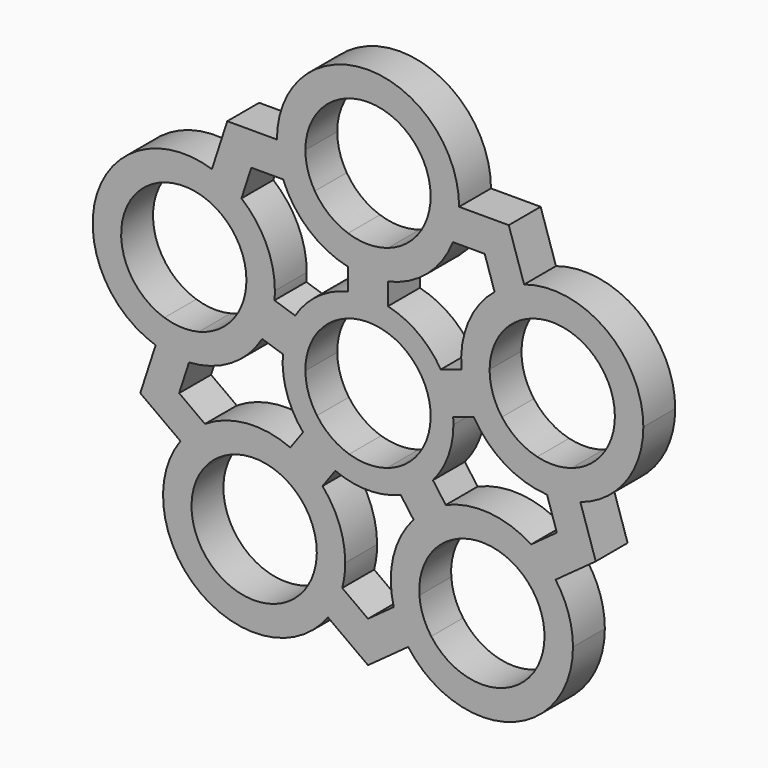
from build123d import *

# Parameters (mm, degrees)
F1_DEPTH = 7


with BuildPart() as f1:
    # F0 (on Front) → F1 (new body)
    with BuildSketch(Plane.XZ):
        with BuildLine():
            ThreePointArc((48.360679775, 10.5146222424), (41.7652438117, 23.4588941524), (27.416407865, 25.7315265031))
            Line((27.416407865, 25.7315265031), (28.9614928369, 20.9762439216))
            ThreePointArc((28.9614928369, 20.9762439216), (38.8263175502, 19.4138091805), (43.360679775, 10.5146222424))
            ThreePointArc((43.360679775, 10.5146222424), (41.2598667131, 4.0489844672), (35.7598667131, 0.0530005631))
            Line((35.7598667131, 0.0530005631), (37.304951685, -4.7022820183))
            ThreePointArc((37.304951685, -4.7022820183), (45.304951685, 1.1100582057), (48.360679775, 10.5146222424))
        make_face()
        with BuildLine():
            ThreePointArc((27.416407865, 25.7315265031), (24.6902095954, 24.5561281169), (22.2280947787, 22.8973005186))
            Line((22.2280947787, 22.8973005186), (23.9485313704, 17.6023411434))
            ThreePointArc((23.9485313704, 17.6023411434), (26.2187976829, 19.6402610894), (28.9614928369, 20.9762439216))
            Line((28.9614928369, 20.9762439216), (27.416407865, 25.7315265031))
        make_face()
        with BuildLine():
            ThreePointArc((22.2280947787, 22.8973005186), (17.5969797386, 16.6817253902), (16.4307551931, 9.0187937711))
            Line((16.4307551931, 9.0187937711), (21.3611921305, 10.6207898431))
            ThreePointArc((21.3611921305, 10.6207898431), (22.0462036291, 14.3371321293), (23.9485313704, 17.6023411434))
            Line((23.9485313704, 17.6023411434), (22.2280947787, 22.8973005186))
        make_face()
        with BuildLine():
            Line((21.3611921305, 10.6207898431), (16.4307551931, 9.0187937711))
            ThreePointArc((16.4307551931, 9.0187937711), (17.1437755143, 5.5703503324), (18.5938741537, 2.361398157))
            Line((18.5938741537, 2.361398157), (23.5243110912, 3.963394229))
            ThreePointArc((23.5243110912, 3.963394229), (21.8990580958, 7.1154353043), (21.3611921305, 10.6207898431))
        make_face()
        with BuildLine():
            Line((29.7211653989, -0.1639995722), (31.4416019907, -5.4589589474))
            ThreePointArc((31.4416019907, -5.4589589474), (34.4085291179, -5.3537838864), (37.304951685, -4.7022820183))
            Line((37.304951685, -4.7022820183), (35.7598667131, 0.0530005631))
            ThreePointArc((35.7598667131, 0.0530005631), (32.7557087171, -0.4782823845), (29.7211653989, -0.1639995722))
        make_face()
        with BuildLine():
            Line((23.5243110912, 3.963394229), (18.5938741537, 2.361398157))
            ThreePointArc((18.5938741537, 2.361398157), (24.0415278254, -3.1525541609), (31.4416019907, -5.4589589474))
            Line((31.4416019907, -5.4589589474), (29.7211653989, -0.1639995722))
            ThreePointArc((29.7211653989, -0.1639995722), (26.2629082231, 1.359449819), (23.5243110912, 3.963394229))
        make_face()
        with BuildLine():
            ThreePointArc((37.304951685, -4.7022820183), (34.4085291179, -5.3537838864), (31.4416019907, -5.4589589474))
            Line((31.4416019907, -5.4589589474), (33.1696967694, -10.7774877984))
            Line((33.1696967694, -10.7774877984), (28.645485903, -14.0645193985))
            ThreePointArc((28.645485903, -14.0645193985), (30.9839600202, -15.8935238202), (32.94427191, -18.1230743727))
            Line((32.94427191, -18.1230743727), (40, -12.9967878493))
            Line((40, -12.9967878493), (37.304951685, -4.7022820183))
        make_face()
        with BuildLine():
            ThreePointArc((36, -27.5276384094), (35.2169042607, -22.5833664994), (32.94427191, -18.1230743727))
            Line((32.94427191, -18.1230743727), (28.8991869381, -21.0620006342))
            ThreePointArc((28.8991869381, -21.0620006342), (30.4616216792, -24.1284514713), (31, -27.5276384094))
            ThreePointArc((31, -27.5276384094), (23.3991869381, -37.9892600887), (11.1008130619, -33.9932761846))
            Line((11.1008130619, -33.9932761846), (7.05572809, -36.9322024461))
            ThreePointArc((7.05572809, -36.9322024461), (24.94427191, -42.7445426701), (36, -27.5276384094))
        make_face()
        with BuildLine():
            ThreePointArc((32.94427191, -18.1230743727), (30.9839600202, -15.8935238202), (28.645485903, -14.0645193985))
            Line((28.645485903, -14.0645193985), (24.1413244303, -17.3369842615))
            ThreePointArc((24.1413244303, -17.3369842615), (26.7810523469, -18.8663839351), (28.8991869381, -21.0620006342))
            Line((28.8991869381, -21.0620006342), (32.94427191, -18.1230743727))
        make_face()
        with BuildLine():
            ThreePointArc((28.645485903, -14.0645193985), (21.3030294243, -11.5807856065), (13.6547651702, -12.83961625))
            Line((13.6547651702, -12.83961625), (16.7019427769, -17.0336964164))
            ThreePointArc((16.7019427769, -17.0336964164), (20.4480745194, -16.5367681425), (24.1413244303, -17.3369842615))
            Line((24.1413244303, -17.3369842615), (28.645485903, -14.0645193985))
        make_face()
        with BuildLine():
            Line((16.7019427769, -17.0336964164), (13.6547651702, -12.83961625))
            ThreePointArc((13.6547651702, -12.83961625), (10.5954359633, -14.5833664994), (7.9916462096, -16.9541130161))
            Line((7.9916462096, -16.9541130161), (11.0388238163, -21.1481931824))
            ThreePointArc((11.0388238163, -21.1481931824), (13.5343622248, -18.6284514713), (16.7019427769, -17.0336964164))
        make_face()
        with BuildLine():
            Line((11.0388238163, -21.1481931824), (7.9916462096, -16.9541130161))
            ThreePointArc((7.9916462096, -16.9541130161), (4.4309834911, -23.8390445115), (4.5242108664, -31.5896515423))
            Line((4.5242108664, -31.5896515423), (9.0283723391, -28.3171866794))
            ThreePointArc((9.0283723391, -28.3171866794), (9.4085985716, -24.5574169054), (11.0388238163, -21.1481931824))
        make_face()
        with BuildLine():
            Line((9.0283723391, -28.3171866794), (4.5242108664, -31.5896515423))
            ThreePointArc((4.5242108664, -31.5896515423), (5.5410691968, -34.3788660388), (7.05572809, -36.9322024461))
            Line((7.05572809, -36.9322024461), (11.1008130619, -33.9932761846))
            ThreePointArc((11.1008130619, -33.9932761846), (9.667197078, -31.3003276061), (9.0283723391, -28.3171866794))
        make_face()
        with BuildLine():
            ThreePointArc((-7.05572809, -36.9322024461), (-5.5410691968, -34.3788660388), (-4.5242108664, -31.5896515423))
            Line((-4.5242108664, -31.5896515423), (-9.0283723391, -28.3171866794))
            ThreePointArc((-9.0283723391, -28.3171866794), (-9.667197078, -31.3003276061), (-11.1008130619, -33.9932761846))
            Line((-11.1008130619, -33.9932761846), (-7.05572809, -36.9322024461))
        make_face()
        with BuildLine():
            Line((-28.8991869381, -21.0620006342), (-32.94427191, -18.1230743727))
            ThreePointArc((-32.94427191, -18.1230743727), (-29.4045640367, -40.4719103194), (-7.05572809, -36.9322024461))
            Line((-7.05572809, -36.9322024461), (-11.1008130619, -33.9932761846))
            ThreePointArc((-11.1008130619, -33.9932761846), (-26.4656377752, -36.4268253475), (-28.8991869381, -21.0620006342))
        make_face()
        with BuildLine():
            ThreePointArc((-4, -27.5276384094), (-5.031137975, -21.8766942692), (-7.9916462096, -16.9541130161))
            Line((-7.9916462096, -16.9541130161), (-11.0388238163, -21.1481931824))
            ThreePointArc((-11.0388238163, -21.1481931824), (-9.5220961538, -24.1789773353), (-9, -27.5276384094))
            ThreePointArc((-9, -27.5276384094), (-9.0070953732, -27.9226673515), (-9.0283723391, -28.3171866794))
            Line((-9.0283723391, -28.3171866794), (-4.5242108664, -31.5896515423))
            ThreePointArc((-4.5242108664, -31.5896515423), (-4.1315938712, -29.5754877523), (-4, -27.5276384094))
        make_face()
        with BuildLine():
            Line((-11.0388238163, -21.1481931824), (-7.9916462096, -16.9541130161))
            ThreePointArc((-7.9916462096, -16.9541130161), (-10.5954359633, -14.5833664994), (-13.6547651702, -12.83961625))
            Line((-13.6547651702, -12.83961625), (-16.7019427769, -17.0336964164))
            ThreePointArc((-16.7019427769, -17.0336964164), (-13.5343622248, -18.6284514713), (-11.0388238163, -21.1481931824))
        make_face()
        with BuildLine():
            Line((-16.7019427769, -17.0336964164), (-13.6547651702, -12.83961625))
            ThreePointArc((-13.6547651702, -12.83961625), (-21.3030294243, -11.5807856065), (-28.645485903, -14.0645193985))
            Line((-28.645485903, -14.0645193985), (-24.1413244303, -17.3369842615))
            ThreePointArc((-24.1413244303, -17.3369842615), (-20.4480745194, -16.5367681425), (-16.7019427769, -17.0336964164))
        make_face()
        with BuildLine():
            Line((-24.1413244303, -17.3369842615), (-28.645485903, -14.0645193985))
            ThreePointArc((-28.645485903, -14.0645193985), (-30.9839600202, -15.8935238202), (-32.94427191, -18.1230743727))
            Line((-32.94427191, -18.1230743727), (-28.8991869381, -21.0620006342))
            ThreePointArc((-28.8991869381, -21.0620006342), (-26.7810523469, -18.8663839351), (-24.1413244303, -17.3369842615))
        make_face()
        with BuildLine():
            ThreePointArc((-37.304951685, -4.7022820183), (-34.4085291179, -5.3537838864), (-31.4416019907, -5.4589589474))
            Line((-31.4416019907, -5.4589589474), (-29.7211653989, -0.1639995722))
            ThreePointArc((-29.7211653989, -0.1639995722), (-32.7557087171, -0.4782823845), (-35.7598667131, 0.0530005631))
            Line((-35.7598667131, 0.0530005631), (-37.304951685, -4.7022820183))
        make_face()
        with BuildLine():
            ThreePointArc((-31.4416019907, -5.4589589474), (-24.0415278254, -3.1525541609), (-18.5938741537, 2.361398157))
            Line((-18.5938741537, 2.361398157), (-23.5243110912, 3.963394229))
            ThreePointArc((-23.5243110912, 3.963394229), (-26.2629082231, 1.359449819), (-29.7211653989, -0.1639995722))
            Line((-29.7211653989, -0.1639995722), (-31.4416019907, -5.4589589474))
        make_face()
        with BuildLine():
            Line((-21.3611921305, 10.6207898431), (-16.4307551931, 9.0187937711))
            ThreePointArc((-16.4307551931, 9.0187937711), (-16.378208231, 9.7658877467), (-16.360679775, 10.5146222424))
            ThreePointArc((-16.360679775, 10.5146222424), (-17.9017489718, 17.3658498718), (-22.2280947787, 22.8973005186))
            Line((-22.2280947787, 22.8973005186), (-23.9485313704, 17.6023411434))
            ThreePointArc((-23.9485313704, 17.6023411434), (-22.0462036291, 14.3371321293), (-21.3611921305, 10.6207898431))
        make_face()
        with BuildLine():
            Line((-23.9485313704, 17.6023411434), (-22.2280947787, 22.8973005186))
            ThreePointArc((-22.2280947787, 22.8973005186), (-24.6902095954, 24.5561281169), (-27.416407865, 25.7315265031))
            Line((-27.416407865, 25.7315265031), (-28.9614928369, 20.9762439216))
            ThreePointArc((-28.9614928369, 20.9762439216), (-26.2187976829, 19.6402610894), (-23.9485313704, 17.6023411434))
        make_face()
        with BuildLine():
            ThreePointArc((-27.416407865, 25.7315265031), (-47.5775840357, 15.4588941524), (-37.304951685, -4.7022820183))
            Line((-37.304951685, -4.7022820183), (-35.7598667131, 0.0530005631))
            ThreePointArc((-35.7598667131, 0.0530005631), (-42.8223014542, 13.9138091805), (-28.9614928369, 20.9762439216))
            Line((-28.9614928369, 20.9762439216), (-27.416407865, 25.7315265031))
        make_face()
        with BuildLine():
            Line((11, 34.0260323341), (16, 34.0260323341))
            ThreePointArc((16, 34.0260323341), (0, 50.0260323341), (-16, 34.0260323341))
            Line((-16, 34.0260323341), (-11, 34.0260323341))
            ThreePointArc((-11, 34.0260323341), (0, 45.0260323341), (11, 34.0260323341))
        make_face()
        with BuildLine():
            Line((9.3403180627, 28.2158293697), (14.9077678246, 28.2158293697))
            ThreePointArc((14.9077678246, 28.2158293697), (15.7245713009, 31.0700456286), (16, 34.0260323341))
            Line((16, 34.0260323341), (11, 34.0260323341))
            ThreePointArc((11, 34.0260323341), (10.5769442347, 31.0047328363), (9.3403180627, 28.2158293697))
        make_face()
        with BuildLine():
            Line((3.5, 23.5977055268), (3.5, 18.4135373381))
            ThreePointArc((3.5, 18.4135373381), (10.4274978465, 21.8906588886), (14.9077678246, 28.2158293697))
            Line((14.9077678246, 28.2158293697), (9.3403180627, 28.2158293697))
            ThreePointArc((9.3403180627, 28.2158293697), (6.8227713537, 25.3976030996), (3.5, 23.5977055268))
        make_face()
        with BuildLine():
            ThreePointArc((-14.9077678246, 28.2158293697), (-10.4274978465, 21.8906588886), (-3.5, 18.4135373381))
            Line((-3.5, 18.4135373381), (-3.5, 23.5977055268))
            ThreePointArc((-3.5, 23.5977055268), (-6.8227713537, 25.3976030996), (-9.3403180627, 28.2158293697))
            Line((-9.3403180627, 28.2158293697), (-14.9077678246, 28.2158293697))
        make_face()
        with BuildLine():
            ThreePointArc((-16, 34.0260323341), (-15.7245713009, 31.0700456286), (-14.9077678246, 28.2158293697))
            Line((-14.9077678246, 28.2158293697), (-9.3403180627, 28.2158293697))
            ThreePointArc((-9.3403180627, 28.2158293697), (-10.5769442347, 31.0047328363), (-11, 34.0260323341))
            Line((-11, 34.0260323341), (-16, 34.0260323341))
        make_face()
        with BuildLine():
            ThreePointArc((-3.5, 18.4135373381), (0, 18.0260323341), (3.5, 18.4135373381))
            Line((3.5, 18.4135373381), (3.5, 23.5977055268))
            ThreePointArc((3.5, 23.5977055268), (0, 23.0260323341), (-3.5, 23.5977055268))
            Line((-3.5, 23.5977055268), (-3.5, 18.4135373381))
        make_face()
        with BuildLine():
            ThreePointArc((-18.5938741537, 2.361398157), (-17.1437755143, 5.5703503324), (-16.4307551931, 9.0187937711))
            Line((-16.4307551931, 9.0187937711), (-21.3611921305, 10.6207898431))
            ThreePointArc((-21.3611921305, 10.6207898431), (-21.3608078646, 10.5677066609), (-21.360679775, 10.5146222424))
            ThreePointArc((-21.360679775, 10.5146222424), (-21.9155839037, 7.064988604), (-23.5243110912, 3.963394229))
            Line((-23.5243110912, 3.963394229), (-18.5938741537, 2.361398157))
        make_face()
        with BuildLine():
            ThreePointArc((-14.953624315, 1.1786092852), (-14.2658477444, 4.6352549156), (-12.7905053543, 7.8360048992))
            Line((-12.7905053543, 7.8360048992), (-16.4307551931, 9.0187937711))
            ThreePointArc((-16.4307551931, 9.0187937711), (-17.1437755143, 5.5703503324), (-18.5938741537, 2.361398157))
            Line((-18.5938741537, 2.361398157), (-14.953624315, 1.1786092852))
        make_face()
        with BuildLine():
            ThreePointArc((-10.9994876445, -0.1061676007), (-10.4616216792, 3.3991869381), (-8.8363686838, 6.5512280134))
            Line((-8.8363686838, 6.5512280134), (-12.7905053543, 7.8360048992))
            ThreePointArc((-12.7905053543, 7.8360048992), (-14.2658477444, 4.6352549156), (-14.953624315, 1.1786092852))
            Line((-14.953624315, 1.1786092852), (-10.9994876445, -0.1061676007))
        make_face()
        with BuildLine():
            ThreePointArc((-8.9611761837, -6.379445227), (-10.4616216792, -3.3991869381), (-10.9994876445, -0.1061676007))
            Line((-10.9994876445, -0.1061676007), (-14.953624315, 1.1786092852))
            ThreePointArc((-14.953624315, 1.1786092852), (-14.2658477444, -4.6352549156), (-11.4049670423, -9.7430347821))
            Line((-11.4049670423, -9.7430347821), (-8.9611761837, -6.379445227))
        make_face()
        with BuildLine():
            Line((-5.7418480816, -13.8575315481), (-3.2980572231, -10.493941993))
            ThreePointArc((-3.2980572231, -10.493941993), (-6.4656377752, -8.8991869381), (-8.9611761837, -6.379445227))
            Line((-8.9611761837, -6.379445227), (-11.4049670423, -9.7430347821))
            ThreePointArc((-11.4049670423, -9.7430347821), (-8.8167787844, -12.1352549156), (-5.7418480816, -13.8575315481))
        make_face()
        with BuildLine():
            Line((-7.9916462096, -16.9541130161), (-5.7418480816, -13.8575315481))
            ThreePointArc((-5.7418480816, -13.8575315481), (-8.8167787844, -12.1352549156), (-11.4049670423, -9.7430347821))
            Line((-11.4049670423, -9.7430347821), (-13.6547651702, -12.83961625))
            ThreePointArc((-13.6547651702, -12.83961625), (-10.5954359633, -14.5833664994), (-7.9916462096, -16.9541130161))
        make_face()
        with BuildLine():
            Line((11.4049670423, -9.7430347821), (8.9611761837, -6.379445227))
            ThreePointArc((8.9611761837, -6.379445227), (6.4656377752, -8.8991869381), (3.2980572231, -10.493941993))
            Line((3.2980572231, -10.493941993), (5.7418480816, -13.8575315481))
            ThreePointArc((5.7418480816, -13.8575315481), (8.8167787844, -12.1352549156), (11.4049670423, -9.7430347821))
        make_face()
        with BuildLine():
            Line((5.7418480816, -13.8575315481), (3.2980572231, -10.493941993))
            ThreePointArc((3.2980572231, -10.493941993), (0, -11), (-3.2980572231, -10.493941993))
            Line((-3.2980572231, -10.493941993), (-5.7418480816, -13.8575315481))
            ThreePointArc((-5.7418480816, -13.8575315481), (0, -15), (5.7418480816, -13.8575315481))
        make_face()
        with BuildLine():
            ThreePointArc((8.8363686838, 6.5512280134), (10.4450958713, 3.4496336384), (11, 0))
            ThreePointArc((11, 0), (10.9998719104, -0.0530844185), (10.9994876445, -0.1061676007))
            Line((10.9994876445, -0.1061676007), (14.953624315, 1.1786092852))
            ThreePointArc((14.953624315, 1.1786092852), (14.2658477444, 4.6352549156), (12.7905053543, 7.8360048992))
            Line((12.7905053543, 7.8360048992), (8.8363686838, 6.5512280134))
        make_face()
        with BuildLine():
            Line((16.4307551931, 9.0187937711), (12.7905053543, 7.8360048992))
            ThreePointArc((12.7905053543, 7.8360048992), (14.2658477444, 4.6352549156), (14.953624315, 1.1786092852))
            Line((14.953624315, 1.1786092852), (18.5938741537, 2.361398157))
            ThreePointArc((18.5938741537, 2.361398157), (17.1437755143, 5.5703503324), (16.4307551931, 9.0187937711))
        make_face()
        with BuildLine():
            ThreePointArc((3.5, 10.4283268073), (6.4656377752, 8.8991869381), (8.8363686838, 6.5512280134))
            Line((8.8363686838, 6.5512280134), (12.7905053543, 7.8360048992))
            ThreePointArc((12.7905053543, 7.8360048992), (8.8167787844, 12.1352549156), (3.5, 14.5859521458))
            Line((3.5, 14.5859521458), (3.5, 10.4283268073))
        make_face()
        with BuildLine():
            ThreePointArc((-3.5, 10.4283268073), (0, 11), (3.5, 10.4283268073))
            Line((3.5, 10.4283268073), (3.5, 14.5859521458))
            ThreePointArc((3.5, 14.5859521458), (0, 15), (-3.5, 14.5859521458))
            Line((-3.5, 14.5859521458), (-3.5, 10.4283268073))
        make_face()
        with BuildLine():
            ThreePointArc((-3.5, 14.5859521458), (0, 15), (3.5, 14.5859521458))
            Line((3.5, 14.5859521458), (3.5, 18.4135373381))
            ThreePointArc((3.5, 18.4135373381), (0, 18.0260323341), (-3.5, 18.4135373381))
            Line((-3.5, 18.4135373381), (-3.5, 14.5859521458))
        make_face()
        with BuildLine():
            ThreePointArc((-8.8363686838, 6.5512280134), (-6.4656377752, 8.8991869381), (-3.5, 10.4283268073))
            Line((-3.5, 10.4283268073), (-3.5, 14.5859521458))
            ThreePointArc((-3.5, 14.5859521458), (-8.8167787844, 12.1352549156), (-12.7905053543, 7.8360048992))
            Line((-12.7905053543, 7.8360048992), (-8.8363686838, 6.5512280134))
        make_face()
        with BuildLine():
            Line((14.953624315, 1.1786092852), (10.9994876445, -0.1061676007))
            ThreePointArc((10.9994876445, -0.1061676007), (10.4616216792, -3.3991869381), (8.9611761837, -6.379445227))
            Line((8.9611761837, -6.379445227), (11.4049670423, -9.7430347821))
            ThreePointArc((11.4049670423, -9.7430347821), (14.0725709384, -5.1925665314), (15, 0))
            ThreePointArc((15, 0), (14.9884015946, 0.5897606615), (14.953624315, 1.1786092852))
        make_face()
        with BuildLine():
            Line((20.5, 28.2158293697), (22.2280947787, 22.8973005186))
            ThreePointArc((22.2280947787, 22.8973005186), (24.6902095954, 24.5561281169), (27.416407865, 25.7315265031))
            Line((27.416407865, 25.7315265031), (24.72135955, 34.0260323341))
            Line((24.72135955, 34.0260323341), (16, 34.0260323341))
            ThreePointArc((16, 34.0260323341), (15.7245713009, 31.0700456286), (14.9077678246, 28.2158293697))
            Line((14.9077678246, 28.2158293697), (20.5, 28.2158293697))
        make_face()
        with BuildLine():
            Line((-20.5, 28.2158293697), (-14.9077678246, 28.2158293697))
            ThreePointArc((-14.9077678246, 28.2158293697), (-15.7245713009, 31.0700456286), (-16, 34.0260323341))
            Line((-16, 34.0260323341), (-24.72135955, 34.0260323341))
            Line((-24.72135955, 34.0260323341), (-27.416407865, 25.7315265031))
            ThreePointArc((-27.416407865, 25.7315265031), (-24.6902095954, 24.5561281169), (-22.2280947787, 22.8973005186))
            Line((-22.2280947787, 22.8973005186), (-20.5, 28.2158293697))
        make_face()
        with BuildLine():
            ThreePointArc((7.05572809, -36.9322024461), (5.5410691968, -34.3788660388), (4.5242108664, -31.5896515423))
            Line((4.5242108664, -31.5896515423), (0, -34.8766831424))
            Line((0, -34.8766831424), (-4.5242108664, -31.5896515423))
            ThreePointArc((-4.5242108664, -31.5896515423), (-5.5410691968, -34.3788660388), (-7.05572809, -36.9322024461))
            Line((-7.05572809, -36.9322024461), (0, -42.0584889695))
            Line((0, -42.0584889695), (7.05572809, -36.9322024461))
        make_face()
        with BuildLine():
            Line((-33.1696967694, -10.7774877984), (-31.4416019907, -5.4589589474))
            ThreePointArc((-31.4416019907, -5.4589589474), (-34.4085291179, -5.3537838864), (-37.304951685, -4.7022820183))
            Line((-37.304951685, -4.7022820183), (-40, -12.9967878493))
            Line((-40, -12.9967878493), (-32.94427191, -18.1230743727))
            ThreePointArc((-32.94427191, -18.1230743727), (-30.9839600202, -15.8935238202), (-28.645485903, -14.0645193985))
            Line((-28.645485903, -14.0645193985), (-33.1696967694, -10.7774877984))
        make_face()
        with BuildLine():
            Line((13.6547651702, -12.83961625), (11.4049670423, -9.7430347821))
            ThreePointArc((11.4049670423, -9.7430347821), (8.8167787844, -12.1352549156), (5.7418480816, -13.8575315481))
            Line((5.7418480816, -13.8575315481), (7.9916462096, -16.9541130161))
            ThreePointArc((7.9916462096, -16.9541130161), (10.5954359633, -14.5833664994), (13.6547651702, -12.83961625))
        make_face()
    extrude(amount=F1_DEPTH)


solid = f1.part
